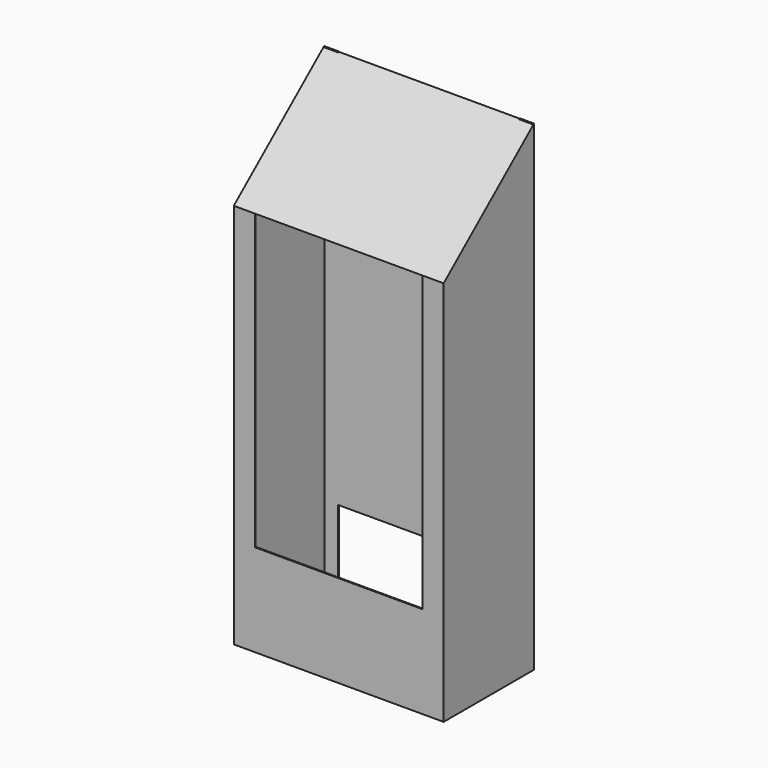
from build123d import *

# Parameters (mm, degrees)
F1_DEPTH = 317.5
F2_T     = -3.175
F4_DEPTH = 1.5875
F5_W     = 508
F5_H     = 889
F6_DEPTH = 4.9404231503


with BuildPart() as f1:
    # F0 (on Right) → F1 (new body, symmetric)
    with BuildSketch(Plane.YZ):
        Polygon((-340.995, 0), (0, 0), (0, 1454.5287787333), (-340.995, 1168.4), align=None)
    extrude(amount=F1_DEPTH, both=True)

    # F2
    f2_openings = [f1.faces().sort_by_distance(p)[0] for p in [
        (0, 0, 727.264389),
    ]]
    offset(amount=F2_T, openings=f2_openings)

    # F3 (on Front) → F4 (join, symmetric)
    with BuildSketch(Plane.XZ):
        Polygon((-273.1135, 247.904), (273.1135, 247.904), (273.1135, 0), (317.5, 0), (317.5, 247.904), (317.5, 1206.6247787333), (317.5, 1454.5287787333), (273.1135, 1454.5287787333), (273.1135, 1206.6247787333), (-273.1135, 1206.6247787333), (-273.1135, 1454.5287787333), (-317.5, 1454.5287787333), (-317.5, 1206.6247787333), (-317.5, 247.904), (-317.5, 0), (-273.1135, 0), align=None)
    extrude(amount=F4_DEPTH, both=True)

    # F5 (on face) → F6 (cut, through all)
    with BuildSketch(Plane.XZ.offset(340.995)):
        with Locations((0, 723.9)):
            Rectangle(F5_W, F5_H)
    extrude(amount=-F6_DEPTH, mode=Mode.SUBTRACT)


solid = f1.part
